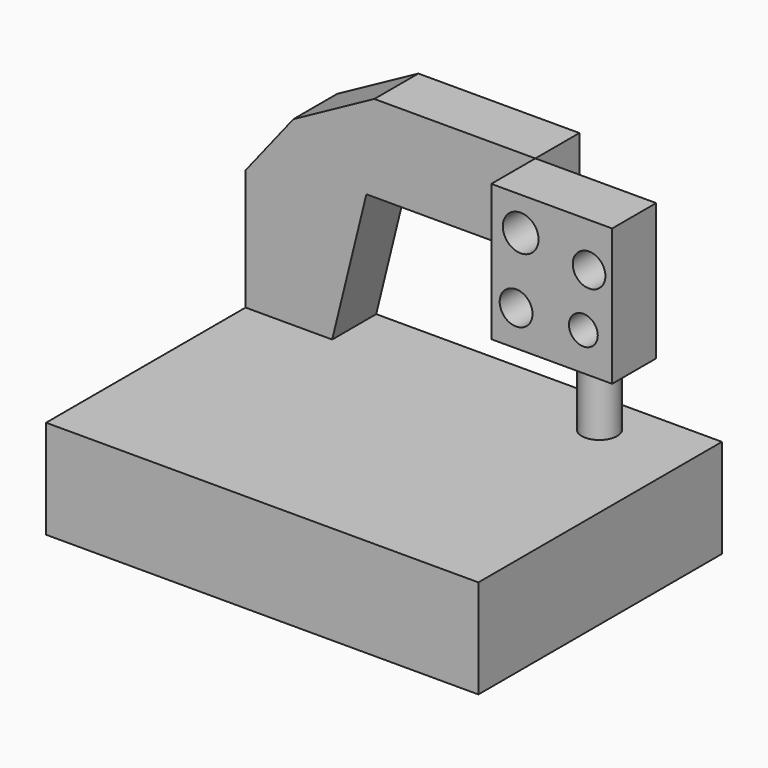
from build123d import *

# Parameters (mm, degrees)
F0_W     = 55.7522624731
F0_H     = 63.1157644093
F0_R     = 7.5824980314
F0_R_2   = 6.6529863156
F0_R_3   = 8.2558617759
F0_R_4   = 7.5325242752
F1_DEPTH = 25.4
F3_DEPTH = 25.4
F4_W     = 199.4978636503
F4_H     = 45.5293208361
F5_DEPTH = 140.462
F6_R     = 8.1629746205
F7_DEPTH = 61.976


with BuildPart() as f1:
    # F0 (on Front) → F1 (new body)
    with BuildSketch(Plane.XZ):
        with Locations((96.9158560038, -11.2258847803)):
            Rectangle(F0_W, F0_H)
        with Locations((80.4858505726, -26.3282060623)):
            Circle(F0_R, mode=Mode.SUBTRACT)
        with Locations((111.5177720785, -25.2762753516)):
            Circle(F0_R_2, mode=Mode.SUBTRACT)
        with Locations((82.5897082686, 4.7975406051)):
            Circle(F0_R_3, mode=Mode.SUBTRACT)
        with Locations((114.1475960612, 0)):
            Circle(F0_R_4, mode=Mode.SUBTRACT)
    extrude(amount=F1_DEPTH)


with BuildPart() as f3:
    # F2 (on face) → F3 (new body)
    with BuildSketch(Plane(origin=(0, 0, 0), x_dir=(-1, 0, 0), z_dir=(0, 1, 0))):
        Polygon((5.248578731, 20.3319974244), (-69.0397247672, 20.3319974244), (-69.0397247672, -19.5631086826), (8.9303385466, -19.5631086826), (24.7092694044, -83.73080194), (64.6826028824, -83.73080194), (64.6826028824, -67.9518580437), (64.6826028824, -27.9785450548), (42.5920821726, 0), align=None)
    extrude(amount=F3_DEPTH)

    # F4 (on face) → F5 (join)
    with BuildSketch(Plane(origin=(0, 25.4, 0), x_dir=(-1, 0, 0), z_dir=(0, 1, 0))):
        with Locations((-35.0663289428, -106.495462358)):
            Rectangle(F4_W, F4_H)
    extrude(amount=-F5_DEPTH)


with BuildPart() as f7:
    # F6 (on face) → F7 (new body)
    with BuildSketch(Plane.XY.offset(-83.73080194)):
        with Locations((94.3648293614, 5.3029819392)):
            Circle(F6_R)
    extrude(amount=F7_DEPTH)


solid = Compound([f1.part, f3.part, f7.part])
